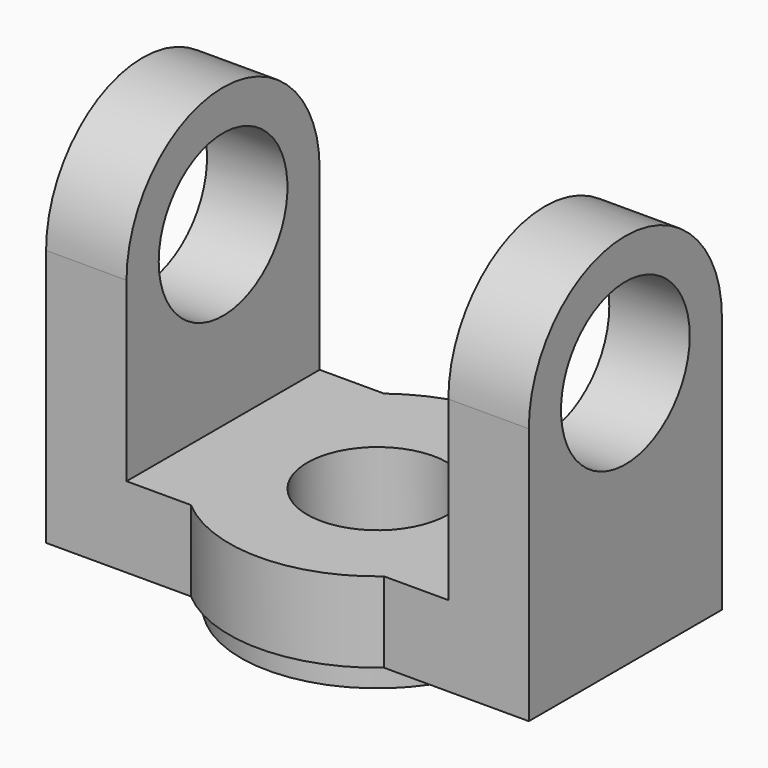
from build123d import *

# Parameters (mm, degrees)
F0_R     = 17
F1_DEPTH = 3
F3_DEPTH = 10
F4_R     = 10
F5_DEPTH = 10
F6_R     = 10
F7_DEPTH = 10
F8_R     = 8.75
F9_DEPTH = 13.001


with BuildPart() as f1:
    # F0 (on Top) → F1 (new body)
    with BuildSketch(Plane.XY):
        Circle(F0_R)
    extrude(amount=F1_DEPTH)

    # F2 (on face) → F3 (join)
    with BuildSketch(Plane.XY.offset(3)):
        Polygon((-12, 16), (-30, 16), (-30, -14), (-12, -14), (12, -14), (30, -14), (30, 16), (12, 16), align=None)
        with BuildLine():
            ThreePointArc((12, 16), (0, 20), (-12, 16))
            Line((-12, 16), (12, 16))
        make_face()
        with BuildLine():
            Line((12, -14), (-12, -14))
            ThreePointArc((-12, -14), (0, -18.4390889146), (12, -14))
        make_face()
    extrude(amount=F3_DEPTH)

    # F4 (on face) → F5 (join)
    with BuildSketch(Plane.YZ.offset(30)):
        with BuildLine():
            Line((-14, 35), (-14, 13))
            Line((-14, 13), (16, 13))
            Line((16, 13), (16, 35))
            ThreePointArc((16, 35), (1, 50), (-14, 35))
        make_face()
        with Locations((1, 35)):
            Circle(F4_R, mode=Mode.SUBTRACT)
    extrude(amount=-F5_DEPTH)

    # F6 (on face) → F7 (join)
    with BuildSketch(Plane(origin=(-30, 0, 0), x_dir=(0, -1, 0), z_dir=(-1, 0, 0))):
        with BuildLine():
            Line((-16, 35), (-16, 13))
            Line((-16, 13), (14, 13))
            Line((14, 13), (14, 35))
            ThreePointArc((14, 35), (-1, 50), (-16, 35))
        make_face()
        with Locations((-1, 35)):
            Circle(F6_R, mode=Mode.SUBTRACT)
    extrude(amount=-F7_DEPTH)

    # F8 (on face) → F9 (cut, through all)
    with BuildSketch(Plane.XY.offset(13)):
        Circle(F8_R)
    extrude(amount=-F9_DEPTH, mode=Mode.SUBTRACT)


solid = f1.part
